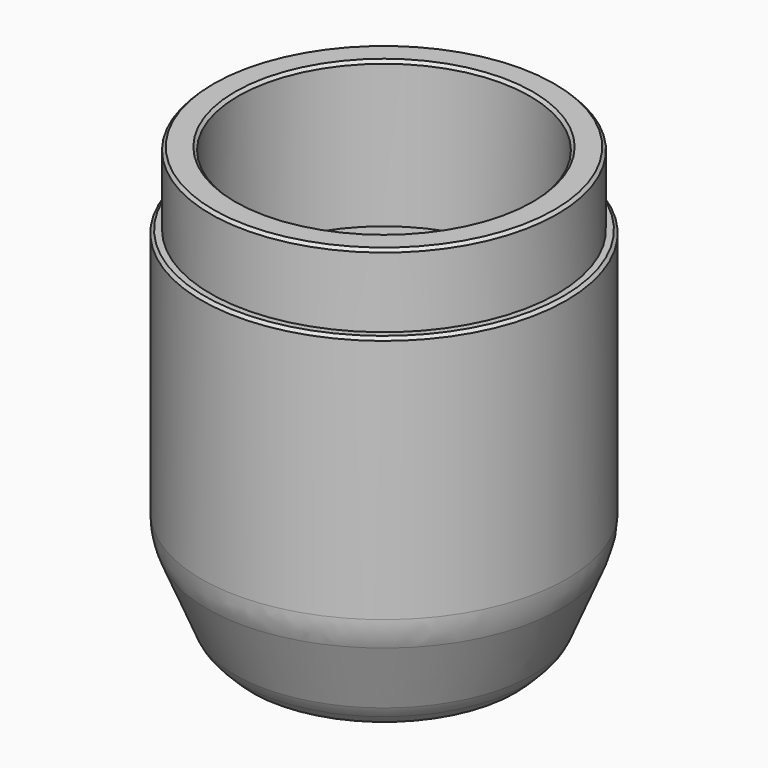
from build123d import *

# Parameters (mm, degrees)
F0_R     = 31.75
F0_R_2   = 30.1625
F1_DEPTH = 63.5
F0_R_3   = 25.4
F2_DEPTH = 76.2
F0_R_4   = 19.05
F3_DEPTH = 50.8
F0_R_5   = 15.875
F4_DEPTH = 50.8
F5_DEPTH = 47.625
F8_SIZE  = 0.508
F9_SIZE  = 0.508
F10_SIZE = 8.89
F11_SIZE = 8.89
F13_R    = 12.7
F14_R    = 6.35


with BuildPart() as f1:
    # F0 (on Top) → F1 (new body)
    with BuildSketch(Plane.XY):
        Circle(F0_R)
        Circle(F0_R_2, mode=Mode.SUBTRACT)
    extrude(amount=F1_DEPTH)

    # F0 (on Top) → F2 (join)
    with BuildSketch(Plane.XY):
        Circle(F0_R_2)
        Circle(F0_R_3, mode=Mode.SUBTRACT)
    extrude(amount=F2_DEPTH)

    # F0 (on Top) → F3 (join)
    with BuildSketch(Plane.XY):
        Circle(F0_R_3)
        Circle(F0_R_4, mode=Mode.SUBTRACT)
    extrude(amount=F3_DEPTH)

    # F0 (on Top) → F4 (join)
    with BuildSketch(Plane.XY):
        Circle(F0_R_4)
        Circle(F0_R_5, mode=Mode.SUBTRACT)
    extrude(amount=F4_DEPTH)

    # F0 (on Top) → F5 (cut)
    with BuildSketch(Plane.XY):
        Circle(F0_R_4)
        Circle(F0_R_5, mode=Mode.SUBTRACT)
    extrude(amount=F5_DEPTH, mode=Mode.SUBTRACT)

    # F8
    f8_edges = [f1.edges().sort_by_distance(p)[0] for p in [
        (-19.05, 0, 0),
        (-31.75, 0, 63.5),
        (-30.1625, 0, 76.2),
        (-25.4, 0, 76.2),
    ]]
    chamfer(f8_edges, length=F8_SIZE)

    # F9
    f9_edges = [f1.edges().sort_by_distance(p)[0] for p in [
        (-15.875, 0, 50.8),
        (-15.875, 0, 47.625),
    ]]
    chamfer(f9_edges, length=F9_SIZE)

    # F10
    f10_edges = [f1.edges().sort_by_distance(p)[0] for p in [
        (-31.75, 0, 0),
    ]]
    chamfer(f10_edges, length=F10_SIZE)

    # F11
    f11_edges = [f1.edges().sort_by_distance(p)[0] for p in [
        (-31.75, 0, 8.89),
    ]]
    chamfer(f11_edges, length=F11_SIZE)

    # F13
    f13_edges = [f1.edges().sort_by_distance(p)[0] for p in [
        (-31.749992, 0, 17.78),
    ]]
    fillet(f13_edges, radius=F13_R)

    # F14
    f14_edges = [f1.edges().sort_by_distance(p)[0] for p in [
        (-25.463814, 0, 2.603821),
    ]]
    fillet(f14_edges, radius=F14_R)


solid = f1.part
